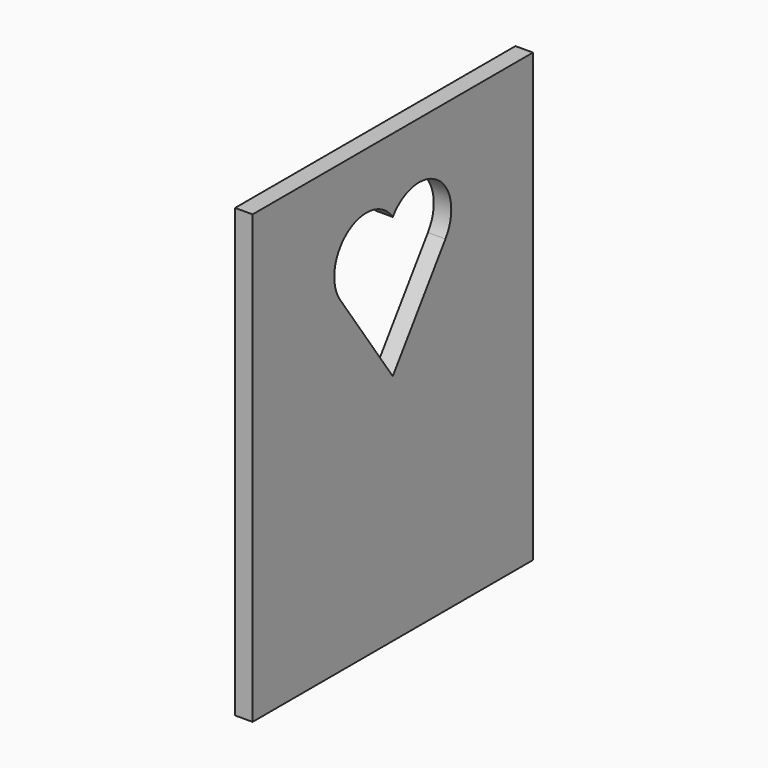
from build123d import *

# Parameters (mm, degrees)
F0_W     = 254
F0_H     = 323.85
F1_DEPTH = 6.35
F3_DEPTH = 12.7


with BuildPart() as f1:
    # F0 (on Right) → F1 (new body, symmetric)
    with BuildSketch(Plane.YZ):
        Rectangle(F0_W, F0_H)
    extrude(amount=F1_DEPTH, both=True)

    # F2 (on Right) → F3 (cut, symmetric)
    with BuildSketch(Plane.YZ):
        Polygon((0, 75.19789), (0, 7.023266), (47.736385, 75.19789), align=None)
        with BuildLine():
            Line((-47.736385, 75.19789), (0, 7.023266))
            Line((0, 7.023266), (0, 75.19789))
            Line((0, 75.19789), (0, 108.623266))
            ThreePointArc((0, 108.623266), (-40.580881, 115.77877), (-47.736385, 75.19789))
        make_face()
        with BuildLine():
            Line((0, 75.19789), (47.736385, 75.19789))
            ThreePointArc((47.736385, 75.19789), (40.580881, 115.77877), (0, 108.623266))
            Line((0, 108.623266), (0, 75.19789))
        make_face()
    extrude(amount=F3_DEPTH, both=True, mode=Mode.SUBTRACT)


solid = f1.part
